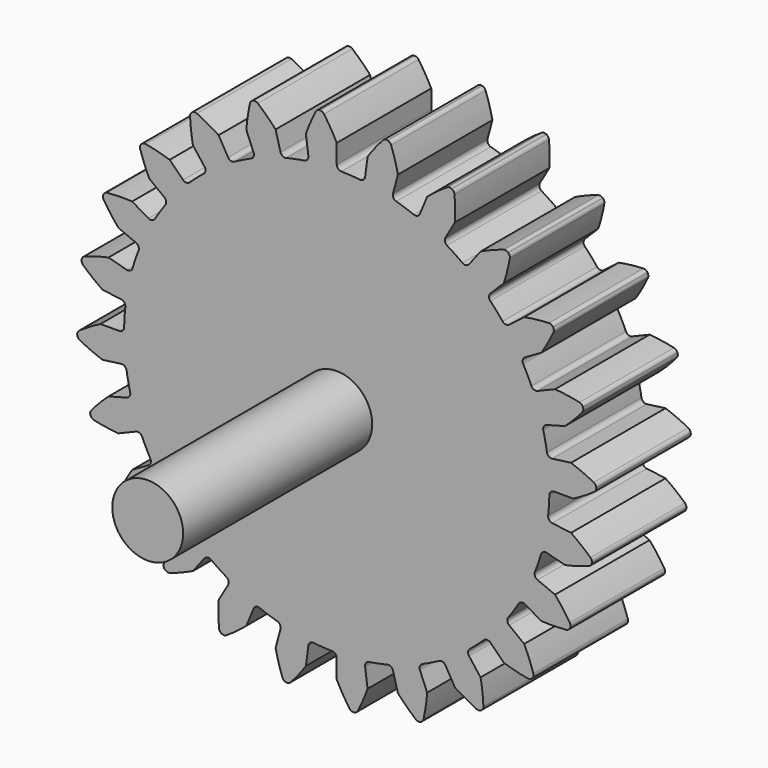
from build123d import *

# Parameters (mm, degrees)
F1_DEPTH = 12.7
F2_R     = 3.81
F3_DEPTH = 25.4


with BuildPart() as f1:
    # F0 (on Front) → F1 (new body)
    with BuildSketch(Plane.XZ):
        with BuildLine():
            ThreePointArc((-3.049415, 23.162608), (-3.146708, 22.791449), (-3.475829, 22.594208))
            ThreePointArc((-3.475829, 22.594208), (-4.459765, 22.420752), (-5.435182, 22.204468))
            ThreePointArc((-5.435182, 22.204468), (-7.348106, 21.646823), (-9.205204, 20.924718))
            ThreePointArc((-9.205204, 20.924718), (-10.110719, 20.502511), (-10.996922, 20.04114))
            ThreePointArc((-10.996922, 20.04114), (-12.700336, 19.007395), (-14.30726, 17.829243))
            ThreePointArc((-14.30726, 17.829243), (-15.072645, 17.187058), (-15.80924, 16.512042))
            ThreePointArc((-15.80924, 16.512042), (-17.187058, 15.072645), (-18.434299, 13.518735))
            ThreePointArc((-18.434299, 13.518735), (-19.007395, 12.700336), (-19.544184, 11.857676))
            ThreePointArc((-19.544184, 11.857676), (-20.502511, 10.110719), (-21.305072, 8.286948))
            ThreePointArc((-21.305072, 8.286948), (-21.646823, 7.348106), (-21.947224, 6.395228))
            ThreePointArc((-21.947224, 6.395228), (-22.420752, 4.459765), (-22.723939, 2.490419))
            ThreePointArc((-22.723939, 2.490419), (-22.811055, 1.495116), (-22.854598, 0.496957))
            ThreePointArc((-22.854598, 0.496957), (-22.811055, -1.495116), (-22.594208, -3.475829))
            ThreePointArc((-22.594208, -3.475829), (-22.420752, -4.459765), (-22.204468, -5.435182))
            ThreePointArc((-22.204468, -5.435182), (-21.646823, -7.348106), (-20.924718, -9.205204))
            ThreePointArc((-20.924718, -9.205204), (-20.502511, -10.110719), (-20.04114, -10.996922))
            ThreePointArc((-20.04114, -10.996922), (-19.007395, -12.700336), (-17.829243, -14.30726))
            ThreePointArc((-17.829243, -14.30726), (-17.187058, -15.072645), (-16.512042, -15.80924))
            ThreePointArc((-16.512042, -15.80924), (-15.072645, -17.187058), (-13.518735, -18.434299))
            ThreePointArc((-13.518735, -18.434299), (-12.700336, -19.007395), (-11.857676, -19.544184))
            ThreePointArc((-11.857676, -19.544184), (-10.110719, -20.502511), (-8.286948, -21.305072))
            ThreePointArc((-8.286948, -21.305072), (-7.348106, -21.646823), (-6.395228, -21.947224))
            ThreePointArc((-6.395228, -21.947224), (-4.459765, -22.420752), (-2.490419, -22.723939))
            ThreePointArc((-2.490419, -22.723939), (-1.495116, -22.811055), (-0.496957, -22.854598))
            ThreePointArc((-0.496957, -22.854598), (1.495116, -22.811055), (3.475829, -22.594208))
            ThreePointArc((3.475829, -22.594208), (4.459765, -22.420752), (5.435182, -22.204468))
            ThreePointArc((5.435182, -22.204468), (7.348106, -21.646823), (9.205204, -20.924718))
            ThreePointArc((9.205204, -20.924718), (10.110719, -20.502511), (10.996922, -20.04114))
            ThreePointArc((10.996922, -20.04114), (12.700336, -19.007395), (14.30726, -17.829243))
            ThreePointArc((14.30726, -17.829243), (15.072645, -17.187058), (15.80924, -16.512042))
            ThreePointArc((15.80924, -16.512042), (17.187058, -15.072645), (18.434299, -13.518735))
            ThreePointArc((18.434299, -13.518735), (19.007395, -12.700336), (19.544184, -11.857676))
            ThreePointArc((19.544184, -11.857676), (20.502511, -10.110719), (21.305072, -8.286948))
            ThreePointArc((21.305072, -8.286948), (21.646823, -7.348106), (21.947224, -6.395228))
            ThreePointArc((21.947224, -6.395228), (22.420752, -4.459765), (22.723939, -2.490419))
            ThreePointArc((22.723939, -2.490419), (22.811055, -1.495116), (22.854598, -0.496957))
            ThreePointArc((22.854598, -0.496957), (22.811055, 1.495116), (22.594208, 3.475829))
            ThreePointArc((22.594208, 3.475829), (22.420752, 4.459765), (22.204468, 5.435182))
            ThreePointArc((22.204468, 5.435182), (21.646823, 7.348106), (20.924718, 9.205204))
            ThreePointArc((20.924718, 9.205204), (20.502511, 10.110719), (20.04114, 10.996922))
            ThreePointArc((20.04114, 10.996922), (19.007395, 12.700336), (17.829243, 14.30726))
            ThreePointArc((17.829243, 14.30726), (17.187058, 15.072645), (16.512042, 15.80924))
            ThreePointArc((16.512042, 15.80924), (15.072645, 17.187058), (13.518735, 18.434299))
            ThreePointArc((13.518735, 18.434299), (12.700336, 19.007395), (11.857676, 19.544184))
            ThreePointArc((11.857676, 19.544184), (10.110719, 20.502511), (8.286948, 21.305072))
            ThreePointArc((8.286948, 21.305072), (7.348106, 21.646823), (6.395228, 21.947224))
            ThreePointArc((6.395228, 21.947224), (4.459765, 22.420752), (2.490419, 22.723939))
            ThreePointArc((2.490419, 22.723939), (1.495116, 22.811055), (0.496957, 22.854598))
            ThreePointArc((0.496957, 22.854598), (0.144906, 23.007193), (0, 23.362478))
            Line((0, 23.362478), (0, 25.4))
            ThreePointArc((0, 25.4), (-0.643904, 26.564648), (-1.367547, 27.6815))
            ThreePointArc((-1.367547, 27.6815), (-1.549174, 27.841027), (-1.78397, 27.898544))
            Line((-1.78397, 27.898544), (-1.828567, 27.898544))
            Line((-1.828567, 27.898544), (-1.872783, 27.892723))
            ThreePointArc((-1.872783, 27.892723), (-2.098062, 27.805051), (-2.257314, 27.623182))
            ThreePointArc((-2.257314, 27.623182), (-2.828987, 26.42143), (-3.315365, 25.182699))
            Line((-3.315365, 25.182699), (-3.049415, 23.162608))
        make_face()
        with BuildLine():
            ThreePointArc((-9.205204, 20.924718), (-7.348106, 21.646823), (-5.435182, 22.204468))
            ThreePointArc((-5.435182, 22.204468), (-5.814731, 22.260747), (-6.046654, 22.56642))
            Line((-6.046654, 22.56642), (-6.574004, 24.534516))
            ThreePointArc((-6.574004, 24.534516), (-7.4974, 25.492825), (-8.485448, 26.384329))
            ThreePointArc((-8.485448, 26.384329), (-8.702175, 26.491411), (-8.943857, 26.486199))
            Line((-8.943857, 26.486199), (-8.986935, 26.474656))
            Line((-8.986935, 26.474656), (-9.028137, 26.457589))
            ThreePointArc((-9.028137, 26.457589), (-9.223049, 26.314598), (-9.329803, 26.097709))
            ThreePointArc((-9.329803, 26.097709), (-9.570961, 24.788946), (-9.720159, 23.46654))
            Line((-9.720159, 23.46654), (-8.940433, 21.584115))
            ThreePointArc((-8.940433, 21.584115), (-8.938348, 21.200422), (-9.205204, 20.924718))
        make_face()
        with BuildLine():
            ThreePointArc((-14.30726, 17.829243), (-12.700336, 19.007395), (-10.996922, 20.04114))
            ThreePointArc((-10.996922, 20.04114), (-11.378104, 19.997267), (-11.681239, 20.232499))
            Line((-11.681239, 20.232499), (-12.7, 21.997045))
            ThreePointArc((-12.7, 21.997045), (-13.839961, 22.683708), (-15.02508, 23.289109))
            ThreePointArc((-15.02508, 23.289109), (-15.262138, 23.336449), (-15.494235, 23.268863))
            Line((-15.494235, 23.268863), (-15.532858, 23.246564))
            Line((-15.532858, 23.246564), (-15.568239, 23.219415))
            ThreePointArc((-15.568239, 23.219415), (-15.719501, 23.030849), (-15.766482, 22.793721))
            ThreePointArc((-15.766482, 22.793721), (-15.66069, 21.467136), (-15.46254, 20.151175))
            Line((-15.46254, 20.151175), (-14.222175, 18.5347))
            ThreePointArc((-14.222175, 18.5347), (-14.120854, 18.16462), (-14.30726, 17.829243))
        make_face()
        with BuildLine():
            ThreePointArc((-18.434299, 13.518735), (-17.187058, 15.072645), (-15.80924, 16.512042))
            ThreePointArc((-15.80924, 16.512042), (-16.166078, 16.371007), (-16.519766, 16.519766))
            Line((-16.519766, 16.519766), (-17.960512, 17.960512))
            ThreePointArc((-17.960512, 17.960512), (-19.239352, 18.328734), (-20.540778, 18.606775))
            ThreePointArc((-20.540778, 18.606775), (-20.782011, 18.591147), (-20.988707, 18.465792))
            Line((-20.988707, 18.465792), (-21.020242, 18.434257))
            Line((-21.020242, 18.434257), (-21.047391, 18.398876))
            ThreePointArc((-21.047391, 18.398876), (-21.144694, 18.177586), (-21.128701, 17.936378))
            ThreePointArc((-21.128701, 17.936378), (-20.683169, 16.682376), (-20.151175, 15.46254))
            Line((-20.151175, 15.46254), (-18.5347, 14.222175))
            ThreePointArc((-18.5347, 14.222175), (-18.341047, 13.89093), (-18.434299, 13.518735))
        make_face()
        with BuildLine():
            ThreePointArc((-21.305072, 8.286948), (-20.502511, 10.110719), (-19.544184, 11.857676))
            ThreePointArc((-19.544184, 11.857676), (-19.852361, 11.629089), (-20.232499, 11.681239))
            Line((-20.232499, 11.681239), (-21.997045, 12.7))
            ThreePointArc((-21.997045, 12.7), (-23.327612, 12.724687), (-24.656656, 12.65642))
            ThreePointArc((-24.656656, 12.65642), (-24.885624, 12.578889), (-25.052833, 12.404309))
            Line((-25.052833, 12.404309), (-25.075131, 12.365686))
            Line((-25.075131, 12.365686), (-25.092198, 12.324484))
            ThreePointArc((-25.092198, 12.324484), (-25.128912, 12.08555), (-25.051034, 11.8567))
            ThreePointArc((-25.051034, 11.8567), (-24.296124, 10.76074), (-23.46654, 9.720159))
            Line((-23.46654, 9.720159), (-21.584115, 8.940433))
            ThreePointArc((-21.584115, 8.940433), (-21.311328, 8.670596), (-21.305072, 8.286948))
        make_face()
        with BuildLine():
            ThreePointArc((-22.723939, 2.490419), (-22.420752, 4.459765), (-21.947224, 6.395228))
            ThreePointArc((-21.947224, 6.395228), (-22.185738, 6.094669), (-22.56642, 6.046654))
            Line((-22.56642, 6.046654), (-24.534516, 6.574004))
            ThreePointArc((-24.534516, 6.574004), (-25.826134, 6.253474), (-27.092223, 5.843551))
            ThreePointArc((-27.092223, 5.843551), (-27.293323, 5.709401), (-27.409649, 5.497492))
            Line((-27.409649, 5.497492), (-27.421192, 5.454414))
            Line((-27.421192, 5.454414), (-27.427013, 5.410199))
            ThreePointArc((-27.427013, 5.410199), (-27.400635, 5.169904), (-27.266181, 4.969008))
            ThreePointArc((-27.266181, 4.969008), (-26.253338, 4.105777), (-25.182699, 3.315365))
            Line((-25.182699, 3.315365), (-23.162608, 3.049415))
            ThreePointArc((-23.162608, 3.049415), (-22.829278, 2.859375), (-22.723939, 2.490419))
        make_face()
        with BuildLine():
            ThreePointArc((-22.594208, -3.475829), (-22.811055, -1.495116), (-22.854598, 0.496957))
            ThreePointArc((-22.854598, 0.496957), (-23.007193, 0.144906), (-23.362478, 0))
            Line((-23.362478, 0), (-25.4, 0))
            ThreePointArc((-25.4, 0), (-26.564648, -0.643904), (-27.6815, -1.367547))
            ThreePointArc((-27.6815, -1.367547), (-27.841027, -1.549174), (-27.898544, -1.78397))
            Line((-27.898544, -1.78397), (-27.898544, -1.828567))
            Line((-27.898544, -1.828567), (-27.892723, -1.872783))
            ThreePointArc((-27.892723, -1.872783), (-27.805051, -2.098062), (-27.623182, -2.257314))
            ThreePointArc((-27.623182, -2.257314), (-26.42143, -2.828987), (-25.182699, -3.315365))
            Line((-25.182699, -3.315365), (-23.162608, -3.049415))
            ThreePointArc((-23.162608, -3.049415), (-22.791449, -3.146708), (-22.594208, -3.475829))
        make_face()
        with BuildLine():
            ThreePointArc((3.049415, 23.162608), (2.859375, 22.829278), (2.490419, 22.723939))
            ThreePointArc((2.490419, 22.723939), (4.459765, 22.420752), (6.395228, 21.947224))
            ThreePointArc((6.395228, 21.947224), (6.094669, 22.185738), (6.046654, 22.56642))
            Line((6.046654, 22.56642), (6.574004, 24.534516))
            ThreePointArc((6.574004, 24.534516), (6.253474, 25.826134), (5.843551, 27.092223))
            ThreePointArc((5.843551, 27.092223), (5.709401, 27.293323), (5.497492, 27.409649))
            Line((5.497492, 27.409649), (5.454414, 27.421192))
            Line((5.454414, 27.421192), (5.410199, 27.427013))
            ThreePointArc((5.410199, 27.427013), (5.169904, 27.400635), (4.969008, 27.266181))
            ThreePointArc((4.969008, 27.266181), (4.105777, 26.253338), (3.315365, 25.182699))
            Line((3.315365, 25.182699), (3.049415, 23.162608))
        make_face()
        with BuildLine():
            ThreePointArc((-20.924718, -9.205204), (-21.646823, -7.348106), (-22.204468, -5.435182))
            ThreePointArc((-22.204468, -5.435182), (-22.260747, -5.814731), (-22.56642, -6.046654))
            Line((-22.56642, -6.046654), (-24.534516, -6.574004))
            ThreePointArc((-24.534516, -6.574004), (-25.492825, -7.4974), (-26.384329, -8.485448))
            ThreePointArc((-26.384329, -8.485448), (-26.491411, -8.702175), (-26.486199, -8.943857))
            Line((-26.486199, -8.943857), (-26.474656, -8.986935))
            Line((-26.474656, -8.986935), (-26.457589, -9.028137))
            ThreePointArc((-26.457589, -9.028137), (-26.314598, -9.223049), (-26.097709, -9.329803))
            ThreePointArc((-26.097709, -9.329803), (-24.788946, -9.570961), (-23.46654, -9.720159))
            Line((-23.46654, -9.720159), (-21.584115, -8.940433))
            ThreePointArc((-21.584115, -8.940433), (-21.200422, -8.938348), (-20.924718, -9.205204))
        make_face()
        with BuildLine():
            ThreePointArc((8.940433, 21.584115), (8.670596, 21.311328), (8.286948, 21.305072))
            ThreePointArc((8.286948, 21.305072), (10.110719, 20.502511), (11.857676, 19.544184))
            ThreePointArc((11.857676, 19.544184), (11.629089, 19.852361), (11.681239, 20.232499))
            Line((11.681239, 20.232499), (12.7, 21.997045))
            ThreePointArc((12.7, 21.997045), (12.724687, 23.327612), (12.65642, 24.656656))
            ThreePointArc((12.65642, 24.656656), (12.578889, 24.885624), (12.404309, 25.052833))
            Line((12.404309, 25.052833), (12.365686, 25.075131))
            Line((12.365686, 25.075131), (12.324484, 25.092198))
            ThreePointArc((12.324484, 25.092198), (12.08555, 25.128912), (11.8567, 25.051034))
            ThreePointArc((11.8567, 25.051034), (10.76074, 24.296124), (9.720159, 23.46654))
            Line((9.720159, 23.46654), (8.940433, 21.584115))
        make_face()
        with BuildLine():
            ThreePointArc((-17.829243, -14.30726), (-19.007395, -12.700336), (-20.04114, -10.996922))
            ThreePointArc((-20.04114, -10.996922), (-19.997267, -11.378104), (-20.232499, -11.681239))
            Line((-20.232499, -11.681239), (-21.997045, -12.7))
            ThreePointArc((-21.997045, -12.7), (-22.683708, -13.839961), (-23.289109, -15.02508))
            ThreePointArc((-23.289109, -15.02508), (-23.336449, -15.262138), (-23.268863, -15.494235))
            Line((-23.268863, -15.494235), (-23.246564, -15.532858))
            Line((-23.246564, -15.532858), (-23.219415, -15.568239))
            ThreePointArc((-23.219415, -15.568239), (-23.030849, -15.719501), (-22.793721, -15.766482))
            ThreePointArc((-22.793721, -15.766482), (-21.467136, -15.66069), (-20.151175, -15.46254))
            Line((-20.151175, -15.46254), (-18.5347, -14.222175))
            ThreePointArc((-18.5347, -14.222175), (-18.16462, -14.120854), (-17.829243, -14.30726))
        make_face()
        with BuildLine():
            ThreePointArc((14.222175, 18.5347), (13.89093, 18.341047), (13.518735, 18.434299))
            ThreePointArc((13.518735, 18.434299), (15.072645, 17.187058), (16.512042, 15.80924))
            ThreePointArc((16.512042, 15.80924), (16.371007, 16.166078), (16.519766, 16.519766))
            Line((16.519766, 16.519766), (17.960512, 17.960512))
            ThreePointArc((17.960512, 17.960512), (18.328734, 19.239352), (18.606775, 20.540778))
            ThreePointArc((18.606775, 20.540778), (18.591147, 20.782011), (18.465792, 20.988707))
            Line((18.465792, 20.988707), (18.434257, 21.020242))
            Line((18.434257, 21.020242), (18.398876, 21.047391))
            ThreePointArc((18.398876, 21.047391), (18.177586, 21.144694), (17.936378, 21.128701))
            ThreePointArc((17.936378, 21.128701), (16.682376, 20.683169), (15.46254, 20.151175))
            Line((15.46254, 20.151175), (14.222175, 18.5347))
        make_face()
        with BuildLine():
            ThreePointArc((-13.518735, -18.434299), (-15.072645, -17.187058), (-16.512042, -15.80924))
            ThreePointArc((-16.512042, -15.80924), (-16.371007, -16.166078), (-16.519766, -16.519766))
            Line((-16.519766, -16.519766), (-17.960512, -17.960512))
            ThreePointArc((-17.960512, -17.960512), (-18.328734, -19.239352), (-18.606775, -20.540778))
            ThreePointArc((-18.606775, -20.540778), (-18.591147, -20.782011), (-18.465792, -20.988707))
            Line((-18.465792, -20.988707), (-18.434257, -21.020242))
            Line((-18.434257, -21.020242), (-18.398876, -21.047391))
            ThreePointArc((-18.398876, -21.047391), (-18.177586, -21.144694), (-17.936378, -21.128701))
            ThreePointArc((-17.936378, -21.128701), (-16.682376, -20.683169), (-15.46254, -20.151175))
            Line((-15.46254, -20.151175), (-14.222175, -18.5347))
            ThreePointArc((-14.222175, -18.5347), (-13.89093, -18.341047), (-13.518735, -18.434299))
        make_face()
        with BuildLine():
            ThreePointArc((18.5347, 14.222175), (18.16462, 14.120854), (17.829243, 14.30726))
            ThreePointArc((17.829243, 14.30726), (19.007395, 12.700336), (20.04114, 10.996922))
            ThreePointArc((20.04114, 10.996922), (19.997267, 11.378104), (20.232499, 11.681239))
            Line((20.232499, 11.681239), (21.997045, 12.7))
            ThreePointArc((21.997045, 12.7), (22.683708, 13.839961), (23.289109, 15.02508))
            ThreePointArc((23.289109, 15.02508), (23.336449, 15.262138), (23.268863, 15.494235))
            Line((23.268863, 15.494235), (23.246564, 15.532858))
            Line((23.246564, 15.532858), (23.219415, 15.568239))
            ThreePointArc((23.219415, 15.568239), (23.030849, 15.719501), (22.793721, 15.766482))
            ThreePointArc((22.793721, 15.766482), (21.467136, 15.66069), (20.151175, 15.46254))
            Line((20.151175, 15.46254), (18.5347, 14.222175))
        make_face()
        with BuildLine():
            ThreePointArc((-8.286948, -21.305072), (-10.110719, -20.502511), (-11.857676, -19.544184))
            ThreePointArc((-11.857676, -19.544184), (-11.629089, -19.852361), (-11.681239, -20.232499))
            Line((-11.681239, -20.232499), (-12.7, -21.997045))
            ThreePointArc((-12.7, -21.997045), (-12.724687, -23.327612), (-12.65642, -24.656656))
            ThreePointArc((-12.65642, -24.656656), (-12.578889, -24.885624), (-12.404309, -25.052833))
            Line((-12.404309, -25.052833), (-12.365686, -25.075131))
            Line((-12.365686, -25.075131), (-12.324484, -25.092198))
            ThreePointArc((-12.324484, -25.092198), (-12.08555, -25.128912), (-11.8567, -25.051034))
            ThreePointArc((-11.8567, -25.051034), (-10.76074, -24.296124), (-9.720159, -23.46654))
            Line((-9.720159, -23.46654), (-8.940433, -21.584115))
            ThreePointArc((-8.940433, -21.584115), (-8.670596, -21.311328), (-8.286948, -21.305072))
        make_face()
        with BuildLine():
            ThreePointArc((21.584115, 8.940433), (21.200422, 8.938348), (20.924718, 9.205204))
            ThreePointArc((20.924718, 9.205204), (21.646823, 7.348106), (22.204468, 5.435182))
            ThreePointArc((22.204468, 5.435182), (22.260747, 5.814731), (22.56642, 6.046654))
            Line((22.56642, 6.046654), (24.534516, 6.574004))
            ThreePointArc((24.534516, 6.574004), (25.492825, 7.4974), (26.384329, 8.485448))
            ThreePointArc((26.384329, 8.485448), (26.491411, 8.702175), (26.486199, 8.943857))
            Line((26.486199, 8.943857), (26.474656, 8.986935))
            Line((26.474656, 8.986935), (26.457589, 9.028137))
            ThreePointArc((26.457589, 9.028137), (26.314598, 9.223049), (26.097709, 9.329803))
            ThreePointArc((26.097709, 9.329803), (24.788946, 9.570961), (23.46654, 9.720159))
            Line((23.46654, 9.720159), (21.584115, 8.940433))
        make_face()
        with BuildLine():
            ThreePointArc((-2.490419, -22.723939), (-4.459765, -22.420752), (-6.395228, -21.947224))
            ThreePointArc((-6.395228, -21.947224), (-6.094669, -22.185738), (-6.046654, -22.56642))
            Line((-6.046654, -22.56642), (-6.574004, -24.534516))
            ThreePointArc((-6.574004, -24.534516), (-6.253474, -25.826134), (-5.843551, -27.092223))
            ThreePointArc((-5.843551, -27.092223), (-5.709401, -27.293323), (-5.497492, -27.409649))
            Line((-5.497492, -27.409649), (-5.454414, -27.421192))
            Line((-5.454414, -27.421192), (-5.410199, -27.427013))
            ThreePointArc((-5.410199, -27.427013), (-5.169904, -27.400635), (-4.969008, -27.266181))
            ThreePointArc((-4.969008, -27.266181), (-4.105777, -26.253338), (-3.315365, -25.182699))
            Line((-3.315365, -25.182699), (-3.049415, -23.162608))
            ThreePointArc((-3.049415, -23.162608), (-2.859375, -22.829278), (-2.490419, -22.723939))
        make_face()
        with BuildLine():
            ThreePointArc((23.162608, 3.049415), (22.791449, 3.146708), (22.594208, 3.475829))
            ThreePointArc((22.594208, 3.475829), (22.811055, 1.495116), (22.854598, -0.496957))
            ThreePointArc((22.854598, -0.496957), (23.007193, -0.144906), (23.362478, 0))
            Line((23.362478, 0), (25.4, 0))
            ThreePointArc((25.4, 0), (26.564648, 0.643904), (27.6815, 1.367547))
            ThreePointArc((27.6815, 1.367547), (27.841027, 1.549174), (27.898544, 1.78397))
            Line((27.898544, 1.78397), (27.898544, 1.828567))
            Line((27.898544, 1.828567), (27.892723, 1.872783))
            ThreePointArc((27.892723, 1.872783), (27.805051, 2.098062), (27.623182, 2.257314))
            ThreePointArc((27.623182, 2.257314), (26.42143, 2.828987), (25.182699, 3.315365))
            Line((25.182699, 3.315365), (23.162608, 3.049415))
        make_face()
        with BuildLine():
            ThreePointArc((3.475829, -22.594208), (1.495116, -22.811055), (-0.496957, -22.854598))
            ThreePointArc((-0.496957, -22.854598), (-0.144906, -23.007193), (0, -23.362478))
            Line((0, -23.362478), (0, -25.4))
            ThreePointArc((0, -25.4), (0.643904, -26.564648), (1.367547, -27.6815))
            ThreePointArc((1.367547, -27.6815), (1.549174, -27.841027), (1.78397, -27.898544))
            Line((1.78397, -27.898544), (1.828567, -27.898544))
            Line((1.828567, -27.898544), (1.872783, -27.892723))
            ThreePointArc((1.872783, -27.892723), (2.098062, -27.805051), (2.257314, -27.623182))
            ThreePointArc((2.257314, -27.623182), (2.828987, -26.42143), (3.315365, -25.182699))
            Line((3.315365, -25.182699), (3.049415, -23.162608))
            ThreePointArc((3.049415, -23.162608), (3.146708, -22.791449), (3.475829, -22.594208))
        make_face()
        with BuildLine():
            ThreePointArc((23.162608, -3.049415), (22.829278, -2.859375), (22.723939, -2.490419))
            ThreePointArc((22.723939, -2.490419), (22.420752, -4.459765), (21.947224, -6.395228))
            ThreePointArc((21.947224, -6.395228), (22.185738, -6.094669), (22.56642, -6.046654))
            Line((22.56642, -6.046654), (24.534516, -6.574004))
            ThreePointArc((24.534516, -6.574004), (25.826134, -6.253474), (27.092223, -5.843551))
            ThreePointArc((27.092223, -5.843551), (27.293323, -5.709401), (27.409649, -5.497492))
            Line((27.409649, -5.497492), (27.421192, -5.454414))
            Line((27.421192, -5.454414), (27.427013, -5.410199))
            ThreePointArc((27.427013, -5.410199), (27.400635, -5.169904), (27.266181, -4.969008))
            ThreePointArc((27.266181, -4.969008), (26.253338, -4.105777), (25.182699, -3.315365))
            Line((25.182699, -3.315365), (23.162608, -3.049415))
        make_face()
        with BuildLine():
            ThreePointArc((9.205204, -20.924718), (7.348106, -21.646823), (5.435182, -22.204468))
            ThreePointArc((5.435182, -22.204468), (5.814731, -22.260747), (6.046654, -22.56642))
            Line((6.046654, -22.56642), (6.574004, -24.534516))
            ThreePointArc((6.574004, -24.534516), (7.4974, -25.492825), (8.485448, -26.384329))
            ThreePointArc((8.485448, -26.384329), (8.702175, -26.491411), (8.943857, -26.486199))
            Line((8.943857, -26.486199), (8.986935, -26.474656))
            Line((8.986935, -26.474656), (9.028137, -26.457589))
            ThreePointArc((9.028137, -26.457589), (9.223049, -26.314598), (9.329803, -26.097709))
            ThreePointArc((9.329803, -26.097709), (9.570961, -24.788946), (9.720159, -23.46654))
            Line((9.720159, -23.46654), (8.940433, -21.584115))
            ThreePointArc((8.940433, -21.584115), (8.938348, -21.200422), (9.205204, -20.924718))
        make_face()
        with BuildLine():
            ThreePointArc((21.584115, -8.940433), (21.311328, -8.670596), (21.305072, -8.286948))
            ThreePointArc((21.305072, -8.286948), (20.502511, -10.110719), (19.544184, -11.857676))
            ThreePointArc((19.544184, -11.857676), (19.852361, -11.629089), (20.232499, -11.681239))
            Line((20.232499, -11.681239), (21.997045, -12.7))
            ThreePointArc((21.997045, -12.7), (23.327612, -12.724687), (24.656656, -12.65642))
            ThreePointArc((24.656656, -12.65642), (24.885624, -12.578889), (25.052833, -12.404309))
            Line((25.052833, -12.404309), (25.075131, -12.365686))
            Line((25.075131, -12.365686), (25.092198, -12.324484))
            ThreePointArc((25.092198, -12.324484), (25.128912, -12.08555), (25.051034, -11.8567))
            ThreePointArc((25.051034, -11.8567), (24.296124, -10.76074), (23.46654, -9.720159))
            Line((23.46654, -9.720159), (21.584115, -8.940433))
        make_face()
        with BuildLine():
            ThreePointArc((14.30726, -17.829243), (12.700336, -19.007395), (10.996922, -20.04114))
            ThreePointArc((10.996922, -20.04114), (11.378104, -19.997267), (11.681239, -20.232499))
            Line((11.681239, -20.232499), (12.7, -21.997045))
            ThreePointArc((12.7, -21.997045), (13.839961, -22.683708), (15.02508, -23.289109))
            ThreePointArc((15.02508, -23.289109), (15.262138, -23.336449), (15.494235, -23.268863))
            Line((15.494235, -23.268863), (15.532858, -23.246564))
            Line((15.532858, -23.246564), (15.568239, -23.219415))
            ThreePointArc((15.568239, -23.219415), (15.719501, -23.030849), (15.766482, -22.793721))
            ThreePointArc((15.766482, -22.793721), (15.66069, -21.467136), (15.46254, -20.151175))
            Line((15.46254, -20.151175), (14.222175, -18.5347))
            ThreePointArc((14.222175, -18.5347), (14.120854, -18.16462), (14.30726, -17.829243))
        make_face()
        with BuildLine():
            ThreePointArc((18.5347, -14.222175), (18.341047, -13.89093), (18.434299, -13.518735))
            ThreePointArc((18.434299, -13.518735), (17.187058, -15.072645), (15.80924, -16.512042))
            ThreePointArc((15.80924, -16.512042), (16.166078, -16.371007), (16.519766, -16.519766))
            Line((16.519766, -16.519766), (17.960512, -17.960512))
            ThreePointArc((17.960512, -17.960512), (19.239352, -18.328734), (20.540778, -18.606775))
            ThreePointArc((20.540778, -18.606775), (20.782011, -18.591147), (20.988707, -18.465792))
            Line((20.988707, -18.465792), (21.020242, -18.434257))
            Line((21.020242, -18.434257), (21.047391, -18.398876))
            ThreePointArc((21.047391, -18.398876), (21.144694, -18.177586), (21.128701, -17.936378))
            ThreePointArc((21.128701, -17.936378), (20.683169, -16.682376), (20.151175, -15.46254))
            Line((20.151175, -15.46254), (18.5347, -14.222175))
        make_face()
    extrude(amount=F1_DEPTH)

    # F2 (on face) → F3 (join)
    with BuildSketch(Plane.XZ.offset(12.7)):
        Circle(F2_R)
    extrude(amount=F3_DEPTH)


solid = f1.part
